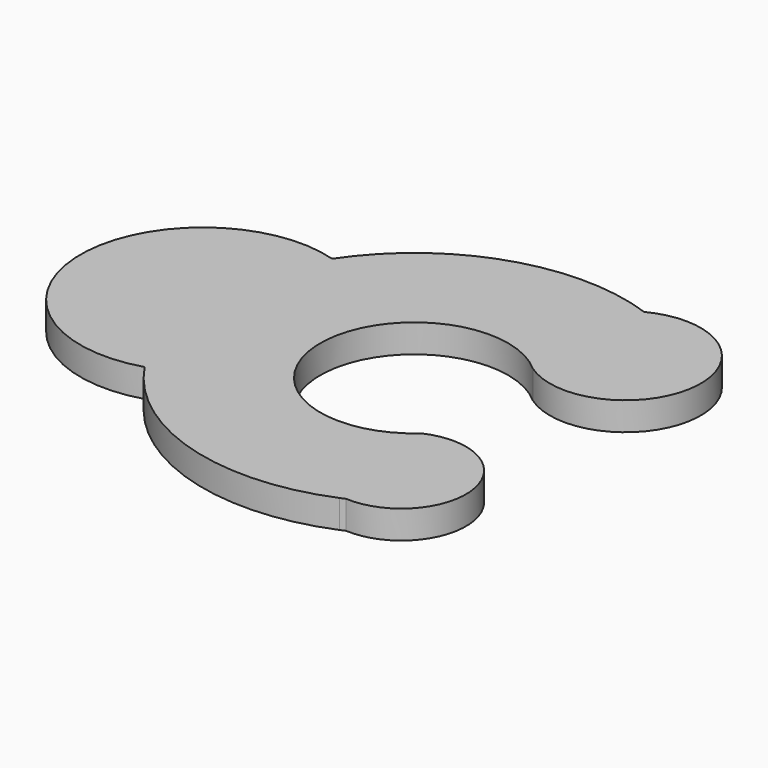
from build123d import *

# Parameters (mm, degrees)
F1_DEPTH = 0.6


with BuildPart() as f1:
    # F0 (on Top) → F1 (new body)
    with BuildSketch(Plane.XY):
        with BuildLine():
            ThreePointArc((-14.063778, 2.495272), (-17.426012, 0), (-14.063778, -2.495272))
            ThreePointArc((-14.063778, -2.495272), (-11.622183, -4.30716), (-8.585657, -4.152787))
            ThreePointArc((-8.585657, -4.152787), (-8.534408, -4.131023), (-8.483431, -4.108627))
            ThreePointArc((-8.483431, -4.108627), (-7.053034, -2.477963), (-8.983482, -1.488786))
            ThreePointArc((-8.983482, -1.488786), (-12.318964, -0.002333), (-8.986959, 1.491897))
            ThreePointArc((-8.986959, 1.491897), (-6.474856, 2.716061), (-8.816181, 4.241655))
            ThreePointArc((-8.816181, 4.241655), (-11.739928, 4.269762), (-14.063778, 2.495272))
        make_face()
    extrude(amount=F1_DEPTH)


solid = f1.part
